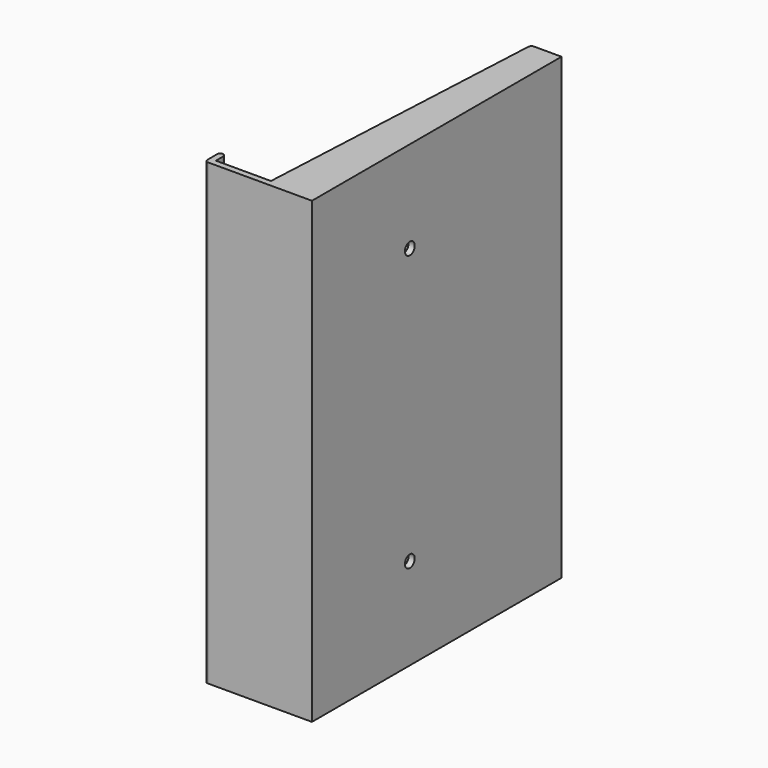
from build123d import *

# Parameters (mm, degrees)
PAD_DEPTH       = 150
SKETCH001_R     = 6
POCKET_DEPTH    = 18
SKETCH002_R     = 2
POCKET001_DEPTH = 2.001


with BuildPart() as part:
    # Sketch → Pad (new body)
    with BuildSketch(Plane.XY):
        with BuildLine():
            Line((0, 0), (-9.048751, 0))
            ThreePointArc((-9.048751, 0), (-9.737976, -0.275453), (-10.047503, -0.950062))
            Line((-10.047503, -0.950062), (-15, -100))
            Line((-15, -100), (-33, -100))
            Line((-33, -100), (-33, -97))
            ThreePointArc((-33, -97), (-34, -96), (-35, -97))
            Line((-35, -97), (-35, -101))
            ThreePointArc((-35, -101), (-34.707107, -101.707107), (-34, -102))
            Line((-34, -102), (0, -102))
            Line((0, -102), (0, 0))
        make_face()
    extrude(amount=PAD_DEPTH)

    # Sketch001 (on Face10 of Pad) → Pocket (cut)
    with BuildSketch(Plane(origin=(-20, 0, 0), x_dir=(0, -1, 0), z_dir=(-1, 0, 0))):
        with Locations((62, 30)):
            Circle(SKETCH001_R)
        with Locations((62, 120)):
            Circle(SKETCH001_R)
    extrude(amount=-POCKET_DEPTH, mode=Mode.SUBTRACT)

    # Sketch002 (on Face15 of Pocket) → Pocket001 (cut, through all)
    with BuildSketch(Plane(origin=(-2, 0, 0), x_dir=(0, -1, 0), z_dir=(-1, 0, 0))):
        with Locations((62, 120)):
            Circle(SKETCH002_R)
        with Locations((62, 30)):
            Circle(SKETCH002_R)
    extrude(amount=-POCKET001_DEPTH, mode=Mode.SUBTRACT)


solid = part.part
